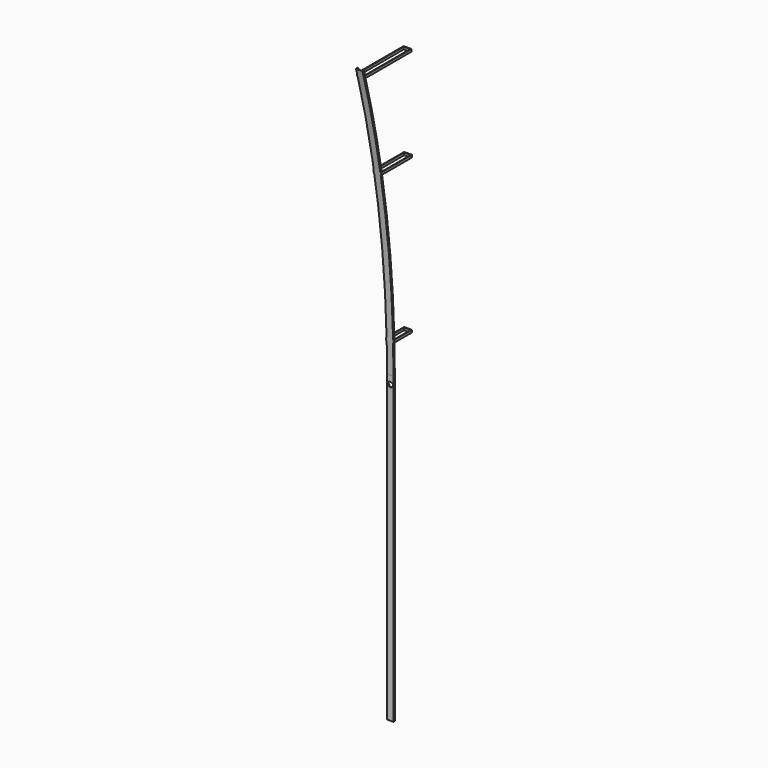
from build123d import *

# Parameters (mm, degrees)
F1_DEPTH  = 1828.8
F3_DEPTH  = 12.5
F4_DEPTH  = 50
F8_DEPTH  = 25
F9_W      = 7.349
F9_H      = 15
F10_DEPTH = 4
F11_W     = 5
F11_H     = 15
F12_DEPTH = 44
F13_W     = 4
F13_H     = 15
F14_DEPTH = 354
F15_W     = 4
F15_H     = 15
F16_DEPTH = 134.7
F17_W     = 4
F17_H     = 15
F18_DEPTH = 231.5


with BuildPart() as f1:
    # F0 (on Top) → F1 (new body)
    with BuildSketch(Plane.XY):
        Polygon((-18.5, -3.5), (-18.5, 3.5), (-12.5, 3.5), (-12.5, 5), (-20, 5), (-20, -5), (20, -5), (20, 5), (12.5, 5), (12.5, 3.5), (18.5, 3.5), (18.5, -3.5), align=None)
    extrude(amount=-F1_DEPTH)

    # F2 (on face) → F3 (cut, symmetric)
    with BuildSketch(Plane(origin=(0, -3.5, 0), x_dir=(-1, 0, 0), z_dir=(0, 1, 0))):
        with BuildLine():
            Line((18.5, 0), (-18.5, 0))
            ThreePointArc((-18.5, 0), (0, -15.5120576256), (18.5, 0))
        make_face()
    extrude(amount=F3_DEPTH, both=True, mode=Mode.SUBTRACT)


with BuildPart() as f4:
    # F0 (on Top) → F4 (new body)
    with BuildSketch(Plane.XY):
        Polygon((-18.5, -3.5), (-18.5, 3.5), (-12.5, 3.5), (-12.5, 5), (-20, 5), (-20, -5), (20, -5), (20, 5), (12.5, 5), (12.5, 3.5), (18.5, 3.5), (18.5, -3.5), align=None)
    extrude(amount=F4_DEPTH)

    # F6: sweep along a path in F5
    with BuildLine(Plane.YZ.offset(20)) as f6_path:
        ThreePointArc((-5, 50), (-65.0392933555, 936.0550407457), (-244.0595437737, 1805.911351821))
    # F4_face1 (on face) → F6 (sweep)
    with BuildSketch(Plane(origin=(0, -1.5398550725, 50), x_dir=(1, 0, 0), z_dir=(0, 0, 1))):
        Polygon((-18.5, -1.9601449275), (-18.5, 5.0398550725), (-12.5, 5.0398550725), (-12.5, 6.5398550725), (-20, 6.5398550725), (-20, -3.4601449275), (20, -3.4601449275), (20, 6.5398550725), (12.5, 6.5398550725), (12.5, 5.0398550725), (18.5, 5.0398550725), (18.5, -1.9601449275), align=None)
    sweep(path=f6_path.line)

    # F7 (on face) → F8 (cut)
    with BuildSketch(Plane.XZ.offset(5)):
        with BuildLine():
            Line((-18.3468125761, 0), (18.4469176068, 0))
            ThreePointArc((18.4469176068, 0), (0.0500525154, 13.4125276155), (-18.3468125761, 0))
        make_face()
    extrude(amount=-F8_DEPTH, mode=Mode.SUBTRACT)

    # F9 (on face) → F10 (join)
    with BuildSketch(Plane(origin=(-20, 0, 0), x_dir=(0, -1, 0), z_dir=(-1, 0, 0))):
        with BuildLine():
            ThreePointArc((-2.4468176602, 233.2596182823), (-2.2335121088, 240.7597423711), (-2.0116519646, 248.2596182823))
            Line((-2.0116519646, 248.2596182823), (-132.3001682758, 248.2596182823))
            Line((-132.3001682758, 248.2596182823), (-132.3001682758, 233.2596182823))
            Line((-132.3001682758, 233.2596182823), (-2.4468176602, 233.2596182823))
        make_face()
        with BuildLine():
            Line((-132.7097213071, 1184.7499661554), (93.6124669304, 1184.7499661554))
            ThreePointArc((93.6124669304, 1184.7499661555), (94.9305313623, 1192.2507316432), (96.2572786929, 1199.7499661554))
            Line((96.2572786929, 1199.7499661554), (-132.7097213071, 1199.7499661554))
            Line((-132.7097213071, 1199.7499661554), (-132.7097213071, 1184.7499661554))
        make_face()
        with BuildLine():
            Line((-128.9436408437, 1761.5390048271), (221.5590919303, 1761.5390048271))
            ThreePointArc((221.5590919303, 1761.5390048271), (223.5851532345, 1769.040204012), (225.6200733691, 1776.5390048272))
            Line((225.6200733691, 1776.5390048271), (-128.9436408437, 1776.5390048271))
            Line((-128.9436408437, 1776.5390048271), (-128.9436408437, 1761.5390048271))
        make_face()
        with BuildLine():
            Line((7.6998317242, 238.3047901022), (7.6998317242, 248.2596182823))
            Line((7.6998317242, 248.2596182823), (-2.0116519646, 248.2596182823))
            ThreePointArc((-2.0116519646, 248.2596182823), (-2.2335121088, 240.7597423711), (-2.4468176602, 233.2596182823))
            Line((-2.4468176602, 233.2596182823), (7.5570710493, 233.2596182823))
            ThreePointArc((7.5570710493, 233.2596182823), (7.6279667789, 235.782217905), (7.6998317242, 238.3047901022))
        make_face()
        with BuildLine():
            ThreePointArc((96.2572786929, 1199.7499661554), (94.9305313623, 1192.2507316432), (93.6124669304, 1184.7499661555))
            Line((93.6124669304, 1184.7499661554), (96.2572786929, 1184.7499661554))
            Line((96.2572786929, 1184.7499661554), (96.2572786929, 1199.7499661554))
        make_face()
        with BuildLine():
            Line((221.5590919303, 1761.5390048271), (231.9163591563, 1761.5390048271))
            Line((231.9163591563, 1761.5390048271), (231.9163591563, 1776.5390048271))
            Line((231.9163591563, 1776.5390048271), (225.6200733691, 1776.5390048271))
            ThreePointArc((225.6200733691, 1776.5390048272), (223.5851532345, 1769.040204012), (221.5590919303, 1761.5390048271))
        make_face()
        with Locations((99.9317786929, 1192.2499661554)):
            Rectangle(F9_W, F9_H)
        with BuildLine():
            ThreePointArc((96.2572786929, 1199.7499661554), (94.9305313623, 1192.2507316432), (93.6124669304, 1184.7499661555))
            Line((93.6124669304, 1184.7499661554), (96.2572786929, 1184.7499661554))
            Line((96.2572786929, 1184.7499661554), (96.2572786929, 1199.7499661554))
        make_face()
    extrude(amount=F10_DEPTH)

    # F11 (on face) → F12 (join)
    with BuildSketch(Plane.YZ.offset(-20)):
        with Locations((129.8001682758, 240.7596182823)):
            Rectangle(F11_W, F11_H)
        with Locations((130.2097213071, 1192.2499661554)):
            Rectangle(F11_W, F11_H)
        with Locations((126.4436408437, 1769.0390048271)):
            Rectangle(F11_W, F11_H)
    extrude(amount=F12_DEPTH)

    # F13 (on face) → F14 (join)
    with BuildSketch(Plane.XZ.offset(-123.9436408437)):
        with Locations((22, 1769.0390048271)):
            Rectangle(F13_W, F13_H)
    extrude(amount=F14_DEPTH)

    # F15 (on face) → F16 (join)
    with BuildSketch(Plane.XZ.offset(-127.3001682758)):
        with Locations((22, 240.7596182823)):
            Rectangle(F15_W, F15_H)
    extrude(amount=F16_DEPTH)

    # F17 (on face) → F18 (join)
    with BuildSketch(Plane.XZ.offset(-127.7097213071)):
        with Locations((22, 1192.2499661554)):
            Rectangle(F17_W, F17_H)
    extrude(amount=F18_DEPTH)


solid = Compound([f1.part, f4.part])
